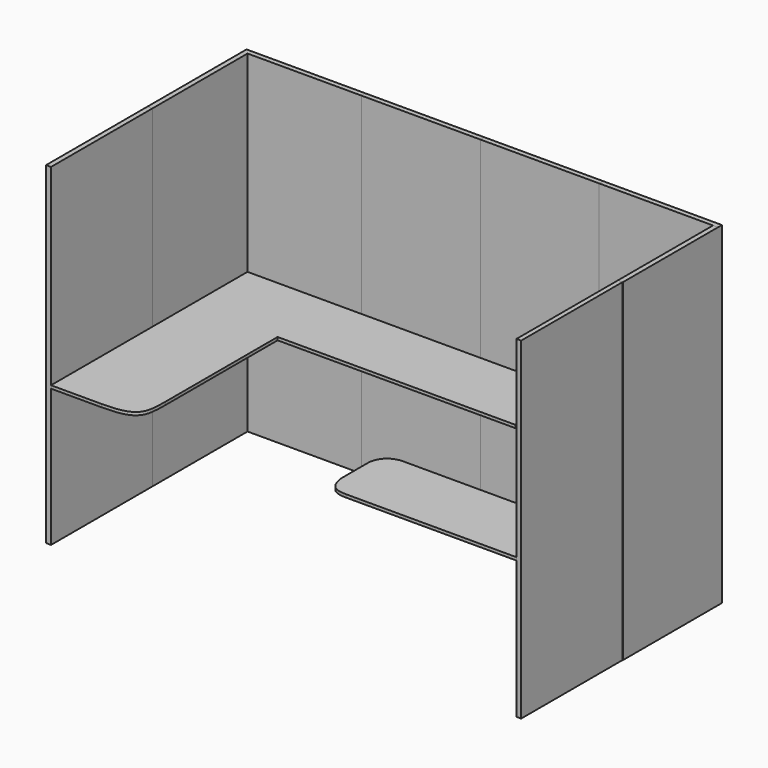
from build123d import *

# Parameters (mm, degrees)
F1_W      = 31.75
F1_H      = 812.8
F2_DEPTH  = 2133.6
F1_H_2    = 762
F3_DEPTH  = 2133.6
F4_DEPTH  = 2133.6
F1_W_2    = 762
F1_H_3    = 31.75
F5_DEPTH  = 2133.6
F6_DEPTH  = 2133.6
F7_DEPTH  = 2133.6
F1_W_3    = 1.8724908829
F1_W_4    = 29.8775091171
F8_DEPTH  = 2133.6
F9_DEPTH  = 2133.6
F12_DEPTH = 19.05
F13_DEPTH = 19.05
F14_DEPTH = 19.05
F11_W     = 1524
F11_H     = 457.2


with BuildPart() as f2:
    # F1 (on face) → F2 (new body)
    with BuildSketch(Plane.XY):
        with Locations((-1506.2525091171, -300.2106396675)):
            Rectangle(F1_W, F1_H)
    extrude(amount=F2_DEPTH)


with BuildPart() as f3:
    # F1 (on face) → F3 (new body)
    with BuildSketch(Plane.XY):
        with Locations((-1506.2525091171, 487.1893603325)):
            Rectangle(F1_W, F1_H_2)
    extrude(amount=F3_DEPTH)

    # F1 (on face) → F4 (join)
    with BuildSketch(Plane.XY):
        Polygon((-1522.1275091171, 899.9393603325), (-1522.1275091171, 868.1893603325), (-1490.3775091171, 868.1893603325), (-760.1275091171, 868.1893603325), (-760.1275091171, 899.9393603325), align=None)
    extrude(amount=F4_DEPTH)


with BuildPart() as f5:
    # F1 (on face) → F5 (new body)
    with BuildSketch(Plane.XY):
        with Locations((-379.1275091171, 884.0643603325)):
            Rectangle(F1_W_2, F1_H_3)
    extrude(amount=F5_DEPTH)


with BuildPart() as f6:
    # F1 (on face) → F6 (new body)
    with BuildSketch(Plane.XY):
        with Locations((382.8724908829, 884.0643603325)):
            Rectangle(F1_W_2, F1_H_3)
    extrude(amount=F6_DEPTH)


with BuildPart() as f7:
    # F1 (on face) → F7 (new body)
    with BuildSketch(Plane.XY):
        Polygon((763.8724908829, 899.9393603325), (763.8724908829, 868.1893603325), (1494.1224908829, 868.1893603325), (1524, 868.1893603325), (1524, 899.9393603325), align=None)
    extrude(amount=F7_DEPTH)


with BuildPart() as f8:
    # F1 (on face) → F8 (new body)
    with BuildSketch(Plane.XY):
        with Locations((1524.9362454414, 487.1893603325)):
            Rectangle(F1_W_3, F1_H_2)
        with Locations((1509.0612454414, 487.1893603325)):
            Rectangle(F1_W_4, F1_H_2)
        with Locations((1524.9362454414, 884.0643603325)):
            Rectangle(F1_W_3, F1_H_3)
    extrude(amount=F8_DEPTH)


with BuildPart() as f9:
    # F1 (on face) → F9 (new body)
    with BuildSketch(Plane.XY):
        with Locations((1509.0612454414, -300.2106396675)):
            Rectangle(F1_W_4, F1_H)
    extrude(amount=F9_DEPTH)


with BuildPart() as f12:
    # F11 (on offset) → F12 (new body)
    with BuildSketch(Plane.XY.offset(882.65)):
        with BuildLine():
            Line((-931.1889594966, 867.4574278822), (-1489.9889594966, 867.4574278822))
            Line((-1489.9889594966, 867.4574278822), (-1489.9889594966, -707.3425721178))
            Line((-1489.9889594966, -707.3425721178), (-1165.974074322, -707.3425721178))
            add(Edge.make_bspline(
                [(-1165.974074322, -707.3425721178), (-1041.381843423, -707.3425721178), (-955.387579272, -670.8314552719), (-931.1889594966, -601.6234620314), (-931.1889594966, -489.1179713462)],
                knots=[0, 0, 0, 0, 0.5176974358, 1, 1, 1, 1], degree=3))
            Line((-931.1889594966, -489.1179713462), (-931.1889594966, 410.2574278822))
            Line((-931.1889594966, 410.2574278822), (-931.1889594966, 867.4574278822))
        make_face()
    extrude(amount=F12_DEPTH)


with BuildPart() as f13:
    # F11 (on offset) → F13 (new body)
    with BuildSketch(Plane.XY.offset(882.65)):
        with BuildLine():
            Line((401.797164918, -707.2619415293), (1493.997164918, -707.2619415293))
            Line((1493.997164918, -707.2619415293), (1493.997164918, -250.0619415293))
            Line((1493.997164918, -250.0619415293), (401.797164918, -250.0619415293))
            add(Edge.make_bspline(
                [(274.797164918, -377.0619415293), (274.797164918, -337.0280400353), (302.3876745849, -277.2630470423), (364.7807500246, -250.0619415293), (401.797164918, -250.0619415293)],
                knots=[0, 0, 0, 0, 0.5022196998, 1, 1, 1, 1], degree=3))
            Line((274.797164918, -377.0619415293), (274.797164918, -580.2619415293))
            add(Edge.make_bspline(
                [(274.797164918, -580.2619415293), (274.797164918, -606.7072252194), (296.0167942373, -698.4288133945), (369.9714603839, -707.2619415293), (401.797164918, -707.2619415293)],
                knots=[0, 0, 0, 0, 0.5110702398, 1, 1, 1, 1], degree=3))
        make_face()
    extrude(amount=F13_DEPTH)


with BuildPart() as f14:
    # F11 (on offset) → F14 (new body)
    with BuildSketch(Plane.XY.offset(882.65)):
        with BuildLine():
            Line((401.797164918, -707.2619415293), (1493.997164918, -707.2619415293))
            Line((1493.997164918, -707.2619415293), (1493.997164918, -250.0619415293))
            Line((1493.997164918, -250.0619415293), (401.797164918, -250.0619415293))
            add(Edge.make_bspline(
                [(274.797164918, -377.0619415293), (274.797164918, -337.0280400353), (302.3876745849, -277.2630470423), (364.7807500246, -250.0619415293), (401.797164918, -250.0619415293)],
                knots=[0, 0, 0, 0, 0.5022196998, 1, 1, 1, 1], degree=3))
            Line((274.797164918, -377.0619415293), (274.797164918, -580.2619415293))
            add(Edge.make_bspline(
                [(274.797164918, -580.2619415293), (274.797164918, -606.7072252194), (296.0167942373, -698.4288133945), (369.9714603839, -707.2619415293), (401.797164918, -707.2619415293)],
                knots=[0, 0, 0, 0, 0.5110702398, 1, 1, 1, 1], degree=3))
        make_face()
    extrude(amount=F14_DEPTH)


with BuildPart() as f14b:
    # F11 (on offset) → F14, piece 2 (new body)
    with BuildSketch(Plane.XY.offset(882.65)):
        with BuildLine():
            Line((-931.1889594966, 867.4574278822), (-1489.9889594966, 867.4574278822))
            Line((-1489.9889594966, 867.4574278822), (-1489.9889594966, -707.3425721178))
            Line((-1489.9889594966, -707.3425721178), (-1165.974074322, -707.3425721178))
            add(Edge.make_bspline(
                [(-1165.974074322, -707.3425721178), (-1041.381843423, -707.3425721178), (-955.387579272, -670.8314552719), (-931.1889594966, -601.6234620314), (-931.1889594966, -489.1179713462)],
                knots=[0, 0, 0, 0, 0.5176974358, 1, 1, 1, 1], degree=3))
            Line((-931.1889594966, -489.1179713462), (-931.1889594966, 410.2574278822))
            Line((-931.1889594966, 410.2574278822), (-931.1889594966, 867.4574278822))
        make_face()
        with Locations((-169.1889594966, 638.8574278822)):
            Rectangle(F11_W, F11_H)
    extrude(amount=F14_DEPTH)


solid = Compound([f2.part, f3.part, f5.part, f6.part, f7.part, f8.part, f9.part, f12.part, f13.part, f14.part, f14b.part])
